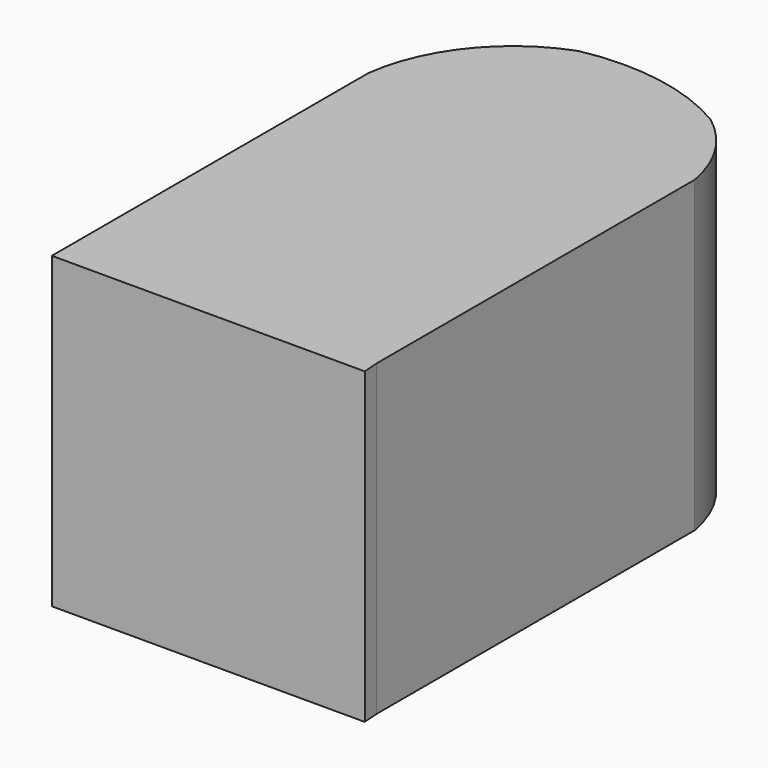
from build123d import *

# Parameters (mm, degrees)
F1_DEPTH = 50.8
F2_DEPTH = 25.4


with BuildPart() as f1:
    # F0 (on Top) → F1 (new body)
    with BuildSketch(Plane.XY):
        with BuildLine():
            ThreePointArc((3.650646, 41.4754), (-8.528173, 45.941043), (-21.498252, 45.734487))
            ThreePointArc((-21.498252, 45.734487), (-33.159754, 37.300433), (-38.737416, 24.033422))
            Line((-38.737416, 24.033422), (-38.737416, -10.444905))
            Line((-38.737416, -10.444905), (-38.737416, -14.095552))
            Line((-38.737416, -14.095552), (-38.737416, -41.069772))
            Line((-38.737416, -41.069772), (12.777264, -41.069772))
            Line((12.777264, -41.069772), (12.574449, -38.433194))
            Line((12.574449, -38.433194), (12.574449, -13.892737))
            Line((12.574449, -13.892737), (12.574449, 27.075628))
            ThreePointArc((12.574449, 27.075628), (9.485068, 35.12609), (3.650646, 41.4754))
        make_face()
    extrude(amount=F1_DEPTH)

    # F0 (on Top) → F2 (join)
    with BuildSketch(Plane.XY):
        with BuildLine():
            ThreePointArc((3.650646, 41.4754), (-8.528173, 45.941043), (-21.498252, 45.734487))
            ThreePointArc((-21.498252, 45.734487), (-33.159754, 37.300433), (-38.737416, 24.033422))
            Line((-38.737416, 24.033422), (-38.737416, -10.444905))
            Line((-38.737416, -10.444905), (-38.737416, -14.095552))
            Line((-38.737416, -14.095552), (-38.737416, -41.069772))
            Line((-38.737416, -41.069772), (12.777264, -41.069772))
            Line((12.777264, -41.069772), (12.574449, -38.433194))
            Line((12.574449, -38.433194), (12.574449, -13.892737))
            Line((12.574449, -13.892737), (12.574449, 27.075628))
            ThreePointArc((12.574449, 27.075628), (9.485068, 35.12609), (3.650646, 41.4754))
        make_face()
    extrude(amount=F2_DEPTH)


solid = f1.part
